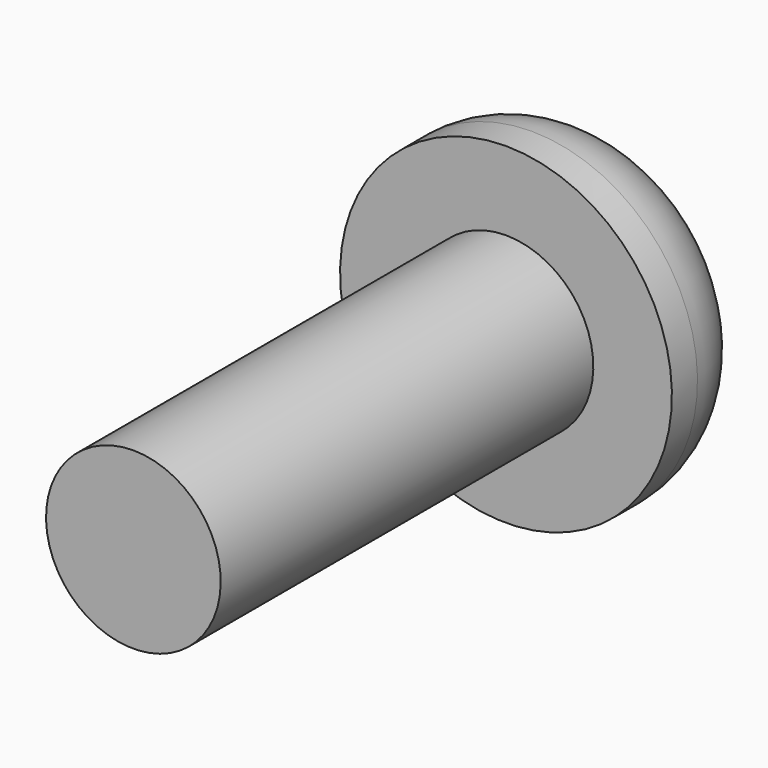
from build123d import *

# Parameters (mm, degrees)
F4_DEPTH = 1.04


with BuildPart() as f2:
    # F1 (on Right) → F2 (revolve)
    with BuildSketch(Plane.YZ):
        with BuildLine():
            Line((-8, 0), (1.65, 0))
            Line((1.65, 0), (1.65, 2.3698039027))
            ThreePointArc((1.65, 2.3698039027), (1.1501225483, 2.7247192175), (0.55, 2.85))
            Line((0.55, 2.85), (0, 2.85))
            Line((0, 2.85), (0, 1.5))
            Line((0, 1.5), (-8, 1.5))
            Line((-8, 1.5), (-8, 0))
        make_face()
    revolve(axis=Axis((0, -3.175, 0), (0, 1, 0)))

    # F3 (on face) → F4 (cut)
    with BuildSketch(Plane(origin=(0, 1.65, 0), x_dir=(-1, 0, 0), z_dir=(0, 1, 0))):
        Polygon((-1, 0.5773502692), (-1, -0.5773502692), (0, -1.1547005384), (1, -0.5773502692), (1, 0.5773502692), (0, 1.1547005384), align=None)
    extrude(amount=-F4_DEPTH, mode=Mode.SUBTRACT)


solid = f2.part
